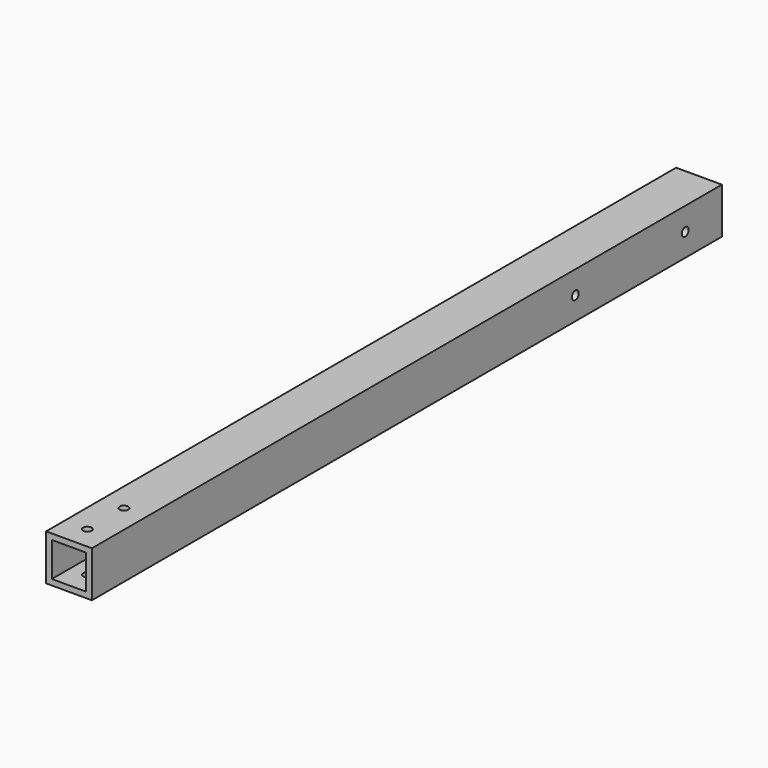
from build123d import *

# Parameters (mm, degrees)
F0_W     = 25.4
F0_H     = 25.4
F0_W_2   = 19.05
F0_H_2   = 19.05
F1_DEPTH = 218.28125
F2_R     = 2.38125
F3_DEPTH = 25.401
F4_R     = 2.38125
F5_DEPTH = 25.401


with BuildPart() as f1:
    # F0 (on Front) → F1 (new body, symmetric)
    with BuildSketch(Plane.XZ):
        Rectangle(F0_W, F0_H)
        Rectangle(F0_W_2, F0_H_2, mode=Mode.SUBTRACT)
    extrude(amount=F1_DEPTH, both=True)

    # F2 (on face) → F3 (cut, through all)
    with BuildSketch(Plane.XY.offset(12.7)):
        with Locations((0, -205.58125)):
            Circle(F2_R)
        with Locations((0, -180.18125)):
            Circle(F2_R)
    extrude(amount=-F3_DEPTH, mode=Mode.SUBTRACT)

    # F4 (on face) → F5 (cut, through all)
    with BuildSketch(Plane.YZ.offset(12.7)):
        with Locations((192.88125, 0)):
            Circle(F4_R)
        with Locations((116.68125, 0)):
            Circle(F4_R)
    extrude(amount=-F5_DEPTH, mode=Mode.SUBTRACT)


solid = f1.part
